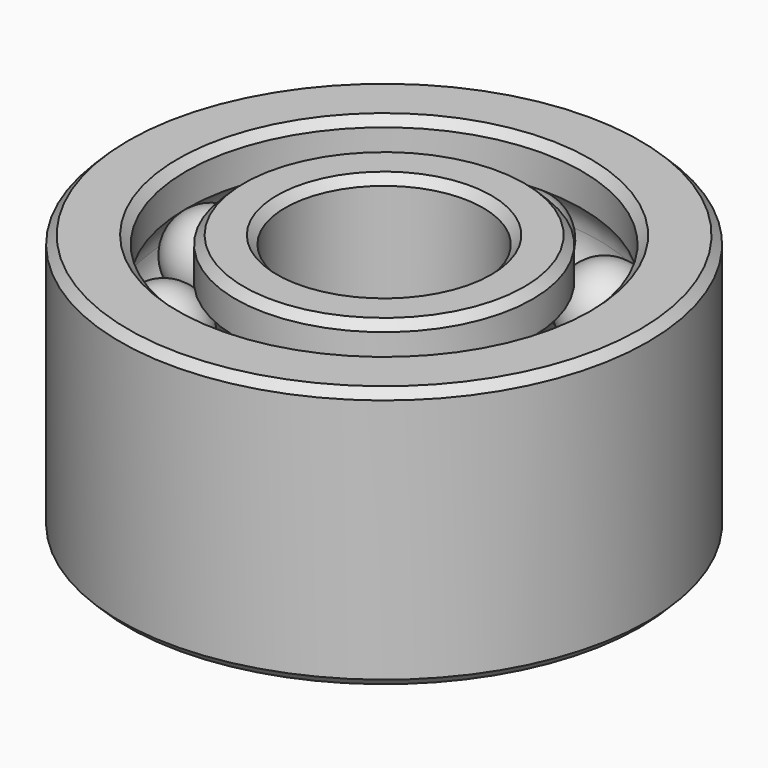
from build123d import *

# Parameters (mm, degrees)
F0_R      = 9
F0_R_2    = 6
F1_DEPTH  = 15.9
F0_R_3    = 16
F0_R_4    = 12
F2_SIZE   = 0.5
F2_2_SIZE = 0.5
F3_R      = 2.5
F8_COUNT  = 8


with BuildPart() as f1:
    # F0 (on Top) → F1 (new body)
    with BuildSketch(Plane.XY):
        Circle(F0_R)
        Circle(F0_R_2, mode=Mode.SUBTRACT)
    extrude(amount=F1_DEPTH)

    # F2#2
    f2_2_edges = [f1.edges().sort_by_distance(p)[0] for p in [
        (-9, 0, 15.9),
        (-6, 0, 15.9),
        (-9, 0, 0),
        (-6, 0, 0),
    ]]
    chamfer(f2_2_edges, length=F2_2_SIZE)


with BuildPart() as f1b:
    # F0 (on Top) → F1, piece 2 (new body)
    with BuildSketch(Plane.XY):
        Circle(F0_R_3)
        Circle(F0_R_4, mode=Mode.SUBTRACT)
    extrude(amount=F1_DEPTH)

    # F2
    f2_edges = [f1b.edges().sort_by_distance(p)[0] for p in [
        (-16, 0, 15.9),
        (-12, 0, 15.9),
        (-16, 0, 0),
        (-12, 0, 0),
    ]]
    chamfer(f2_edges, length=F2_SIZE)


with BuildPart() as f4_tool:
    # F3 (on Front) → F4 (revolve)
    with BuildSketch(Plane.XZ):
        with Locations((10.5, 11.4)):
            Circle(F3_R)
        with Locations((10.5, 4.5)):
            Circle(F3_R)
    revolve(axis=Axis((0, 0, 7.6365430141), (0, 0, -1)))


with BuildPart() as f1_1:
    add(f1.part)

    # F4: cut by f4_tool
    add(f4_tool.part, mode=Mode.SUBTRACT)


with BuildPart() as f1b_1:
    add(f1b.part)

    # F4: cut by f4_tool
    add(f4_tool.part, mode=Mode.SUBTRACT)


with BuildPart() as f6:
    # F5 (on Front) → F6 (revolve)
    with BuildSketch(Plane.XZ):
        with BuildLine():
            Line((10.5, 11.4), (10.5, 8.905))
            ThreePointArc((10.5, 8.905), (12.995, 11.4), (10.5, 13.895))
            Line((10.5, 13.895), (10.5, 11.4))
        make_face()
    revolve(axis=Axis((10.5, 0, 12.6475), (0, 0, 1)))


with BuildPart() as f6b:
    # F5 (on Front) → F6, piece 2 (revolve)
    with BuildSketch(Plane.XZ):
        with BuildLine():
            Line((10.5, 4.5), (10.5, 2.005))
            ThreePointArc((10.5, 2.005), (12.995, 4.5), (10.5, 6.995))
            Line((10.5, 6.995), (10.5, 4.5))
        make_face()
    revolve(axis=Axis((10.5, 0, 12.6475), (0, 0, 1)))


with BuildPart() as f8_1:
    # F8: instance of F6
    add(f6.part.rotate(Axis((0, 0, 2.0341333002), (0, 0, -1)), 1 * 360 / F8_COUNT))


with BuildPart() as f8_2:
    # F8: instance of F6
    add(f6.part.rotate(Axis((0, 0, 2.0341333002), (0, 0, -1)), 2 * 360 / F8_COUNT))


with BuildPart() as f8_3:
    # F8: instance of F6
    add(f6.part.rotate(Axis((0, 0, 2.0341333002), (0, 0, -1)), 3 * 360 / F8_COUNT))


with BuildPart() as f8_4:
    # F8: instance of F6
    add(f6.part.rotate(Axis((0, 0, 2.0341333002), (0, 0, -1)), 4 * 360 / F8_COUNT))


with BuildPart() as f8_5:
    # F8: instance of F6
    add(f6.part.rotate(Axis((0, 0, 2.0341333002), (0, 0, -1)), 5 * 360 / F8_COUNT))


with BuildPart() as f8_6:
    # F8: instance of F6
    add(f6.part.rotate(Axis((0, 0, 2.0341333002), (0, 0, -1)), 6 * 360 / F8_COUNT))


with BuildPart() as f8_7:
    # F8: instance of F6
    add(f6.part.rotate(Axis((0, 0, 2.0341333002), (0, 0, -1)), 7 * 360 / F8_COUNT))


with BuildPart() as f8_8:
    # F8: instance of F6b
    add(f6b.part.rotate(Axis((0, 0, 2.0341333002), (0, 0, -1)), 1 * 360 / F8_COUNT))


with BuildPart() as f8_9:
    # F8: instance of F6b
    add(f6b.part.rotate(Axis((0, 0, 2.0341333002), (0, 0, -1)), 2 * 360 / F8_COUNT))


with BuildPart() as f8_10:
    # F8: instance of F6b
    add(f6b.part.rotate(Axis((0, 0, 2.0341333002), (0, 0, -1)), 3 * 360 / F8_COUNT))


with BuildPart() as f8_11:
    # F8: instance of F6b
    add(f6b.part.rotate(Axis((0, 0, 2.0341333002), (0, 0, -1)), 4 * 360 / F8_COUNT))


with BuildPart() as f8_12:
    # F8: instance of F6b
    add(f6b.part.rotate(Axis((0, 0, 2.0341333002), (0, 0, -1)), 5 * 360 / F8_COUNT))


with BuildPart() as f8_13:
    # F8: instance of F6b
    add(f6b.part.rotate(Axis((0, 0, 2.0341333002), (0, 0, -1)), 6 * 360 / F8_COUNT))


with BuildPart() as f8_14:
    # F8: instance of F6b
    add(f6b.part.rotate(Axis((0, 0, 2.0341333002), (0, 0, -1)), 7 * 360 / F8_COUNT))


solid = Compound([f1_1.part, f1b_1.part, f6.part, f6b.part, f8_1.part, f8_2.part, f8_3.part, f8_4.part, f8_5.part, f8_6.part, f8_7.part, f8_8.part, f8_9.part, f8_10.part, f8_11.part, f8_12.part, f8_13.part, f8_14.part])
